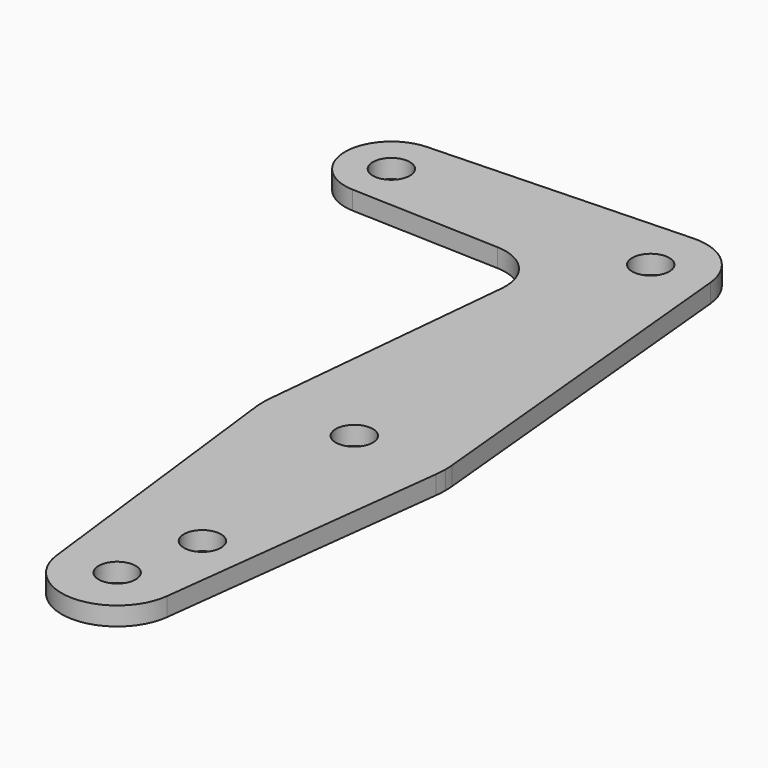
from build123d import *

# Parameters (mm, degrees)
F0_R     = 3.175
F1_DEPTH = 3.175
F2_R     = 8.1915


with BuildPart() as f1:
    # F0 (on Top) → F1 (new body)
    with BuildSketch(Plane.XY):
        with BuildLine():
            ThreePointArc((-44.7334821429, -7.9324362036), (-38.9384772185, -5.7120069047), (-36.5125, 0))
            ThreePointArc((-36.5125, 0), (-38.9384772185, 5.7120069047), (-44.7334821429, 7.9324362036))
            ThreePointArc((-44.7334821429, 7.9324362036), (-52.3875, 0), (-44.7334821429, -7.9324362036))
        make_face()
        with Locations((-44.45, 0)):
            Circle(F0_R, mode=Mode.SUBTRACT)
        with BuildLine():
            ThreePointArc((-44.7334821429, 7.9324362036), (-38.9384772185, 5.7120069047), (-36.5125, 0))
            ThreePointArc((-36.5125, 0), (-38.9384772185, -5.7120069047), (-44.7334821429, -7.9324362036))
            Line((-44.7334821429, -7.9324362036), (-10.4524001899, -9.157542126))
            Line((-10.4524001899, -9.157542126), (-9.481007206, 0.9144))
            ThreePointArc((-9.481007206, 0.9144), (-6.5286582423, 6.9355783144), (-0.3401785714, 9.5189234444))
            Line((-0.3401785714, 9.5189234444), (-44.7334821429, 7.9324362036))
        make_face()
        with BuildLine():
            ThreePointArc((9.481007206, 0.9144), (6.2767940031, 7.1643200684), (-0.3401785714, 9.5189234444))
            ThreePointArc((-0.3401785714, 9.5189234444), (-6.5286582423, 6.9355783144), (-9.481007206, 0.9144))
            ThreePointArc((-9.481007206, 0.9144), (-7.1643200684, -6.2767940031), (-0.3401785714, -9.5189234444))
            ThreePointArc((-0.3401785714, -9.5189234444), (6.6138273378, -6.8544082857), (9.525, 0))
            ThreePointArc((9.525, 0), (9.5139954445, 0.4577288296), (9.481007206, 0.9144))
        make_face()
        Circle(F0_R, mode=Mode.SUBTRACT)
        with BuildLine():
            Line((-0.3401785714, -9.5189234444), (-10.4524001899, -9.157542126))
            Line((-10.4524001899, -9.157542126), (-15.5488518178, -62.000384))
            ThreePointArc((-15.5488518178, -62.000384), (0, -47.879), (15.5488518178, -62.000384))
            Line((15.5488518178, -62.000384), (9.481007206, 0.9144))
            ThreePointArc((9.481007206, 0.9144), (9.5139954445, 0.4577288296), (9.525, 0))
            ThreePointArc((9.525, 0), (6.6138273378, -6.8544082857), (-0.3401785714, -9.5189234444))
        make_face()
        with BuildLine():
            Line((-9.481007206, 0.9144), (-10.4524001899, -9.157542126))
            Line((-10.4524001899, -9.157542126), (-0.3401785714, -9.5189234444))
            ThreePointArc((-0.3401785714, -9.5189234444), (-7.1643200684, -6.2767940031), (-9.481007206, 0.9144))
        make_face()
        with BuildLine():
            ThreePointArc((15.5488518178, -62.000384), (0, -47.879), (-15.5488518178, -62.000384))
            ThreePointArc((-15.5488518178, -62.000384), (-15.6198619711, -63.6885550396), (-15.5081209619, -65.37452))
            ThreePointArc((-15.5081209619, -65.37452), (0, -79.121), (15.5081209619, -65.37452))
            ThreePointArc((15.5081209619, -65.37452), (15.5927547044, -64.4389577876), (15.621, -63.5))
            ThreePointArc((15.621, -63.5), (15.602952529, -62.7493247194), (15.5488518178, -62.000384))
        make_face()
        with Locations((0, -63.5)):
            Circle(F0_R, mode=Mode.SUBTRACT)
        with BuildLine():
            ThreePointArc((15.5081209619, -65.37452), (0, -79.121), (-15.5081209619, -65.37452))
            Line((-15.5081209619, -65.37452), (-9.4561713182, -115.443))
            ThreePointArc((-9.4561713182, -115.443), (-0.5725352363, -104.7922227412), (9.525, -114.3))
            ThreePointArc((9.525, -114.3), (9.5077772588, -114.8725352363), (9.4561713182, -115.443))
            Line((9.4561713182, -115.443), (15.5081209619, -65.37452))
        make_face()
        with Locations((3.175, -100.0125)):
            Circle(F0_R, mode=Mode.SUBTRACT)
        with BuildLine():
            ThreePointArc((9.525, -114.3), (-0.5725352363, -104.7922227412), (-9.4561713182, -115.443))
            ThreePointArc((-9.4561713182, -115.443), (0, -123.825), (9.4561713182, -115.443))
            ThreePointArc((9.4561713182, -115.443), (9.5077772588, -114.8725352363), (9.525, -114.3))
        make_face()
        with Locations((0, -114.3)):
            Circle(F0_R, mode=Mode.SUBTRACT)
    extrude(amount=F1_DEPTH)

    # F2
    f2_edges = [f1.edges().sort_by_distance(p)[0] for p in [
        (-10.4524, -9.157542, 1.5875),
    ]]
    fillet(f2_edges, radius=F2_R)


solid = f1.part
